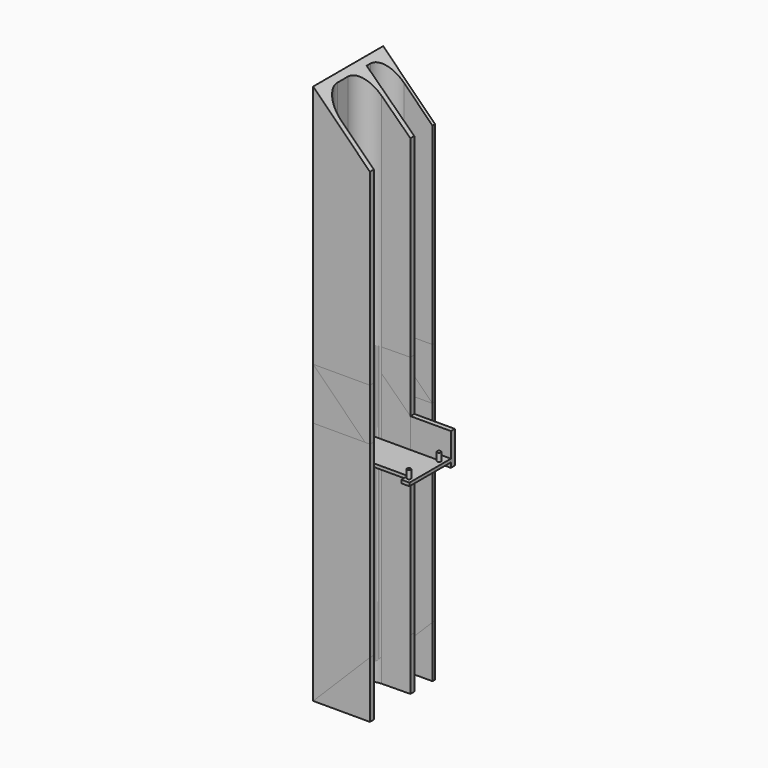
from build123d import *

# Parameters (mm, degrees)
PAD_DEPTH       = 334
POCKET_DEPTH    = 54.001
POCKET001_DEPTH = 54.001
PAD001_DEPTH    = 183
POCKET003_DEPTH = 54.001
PAD002_DEPTH    = 183
POCKET004_DEPTH = 54.001
PAD003_DEPTH    = 151
POCKET006_DEPTH = 54.001
SKETCH011_R     = 1.5
PAD004_DEPTH    = 5
PAD005_DEPTH    = 151
POCKET007_DEPTH = 54.001
SKETCH014_W     = 15
SKETCH014_H     = 10
SKETCH014_W_2   = 30
SKETCH014_H_2   = 21.8
SKETCH014_W_3   = 14
SKETCH014_H_3   = 9
POCKET008_DEPTH = 5
SKETCH015_W     = 54
SKETCH015_H     = 2
PAD006_DEPTH    = 32
SKETCH016_R     = 1.15
PAD007_DEPTH    = 5
SKETCH017_W     = 43.5
SKETCH017_H     = 5
POCKET009_DEPTH = 5
SKETCH018_W     = 3
SKETCH018_H     = 20
PAD008_DEPTH    = 25
SKETCH019_W     = 5
SKETCH019_H     = 14
POCKET010_DEPTH = 1.5


with BuildPart() as top_and_left:
    # Sketch → Pad (new body)
    with BuildSketch(Plane.XY):
        with BuildLine():
            Line((32, 52), (14.5, 52))
            ThreePointArc((14.5, 52), (6.368272, 48.631728), (3, 40.5))
            Line((3, 40.5), (3, 37.5))
            Line((3, 37.5), (32, 38))
            Line((32, 38), (32, 35))
            Line((32, 35), (14.498291, 34.698246))
            ThreePointArc((14.498291, 34.698246), (6.355841, 31.201519), (3, 23))
            Line((3, 23), (3, 15))
            ThreePointArc((3, 15), (6.514719, 6.514719), (15, 3))
            Line((15, 3), (35, 3))
            Line((35, 3), (35, 0))
            Line((35, 0), (0, 0))
            Line((0, 0), (0, 54))
            Line((0, 54), (32, 54))
            Line((32, 54), (32, 52))
        make_face()
    extrude(amount=PAD_DEPTH)

    # Sketch001 → Pocket (cut, through all)
    with BuildSketch(Plane.XZ):
        Polygon((0, 334), (35, 334), (35, 299), align=None)
    extrude(amount=-POCKET_DEPTH, mode=Mode.SUBTRACT)

    # Sketch002 → Pocket001 (cut, through all)
    with BuildSketch(Plane.XZ):
        Polygon((0, 0), (35, 0), (35, 35), align=None)
    extrude(amount=-POCKET001_DEPTH, mode=Mode.SUBTRACT)


with BuildPart() as bottom_l:
    # Sketch003 → Pad001 (new body)
    with BuildSketch(Plane.XY):
        with BuildLine():
            Line((32, 52), (14.5, 52))
            ThreePointArc((14.5, 52), (6.368272, 48.631728), (3, 40.5))
            Line((3, 40.5), (3, 37.5))
            Line((3, 37.5), (32, 38))
            Line((32, 38), (32, 35))
            Line((32, 35), (14.498291, 34.698246))
            ThreePointArc((14.498291, 34.698246), (6.355841, 31.201519), (3, 23))
            Line((3, 23), (3, 15))
            ThreePointArc((3, 15), (6.514719, 6.514719), (15, 3))
            Line((15, 3), (35, 3))
            Line((35, 3), (35, 0))
            Line((35, 0), (0, 0))
            Line((0, 0), (0, 54))
            Line((0, 54), (32, 54))
            Line((32, 54), (32, 52))
        make_face()
    extrude(amount=PAD001_DEPTH)

    # Sketch005 → Pocket003 (cut, through all)
    with BuildSketch(Plane.XZ):
        Polygon((0, 0), (35, 0), (35, 35), align=None)
    extrude(amount=-POCKET003_DEPTH, mode=Mode.SUBTRACT)


with BuildPart() as right_u:
    # Sketch006 → Pad002 (new body)
    with BuildSketch(Plane.XY):
        with BuildLine():
            Line((32, 52), (14.5, 52))
            ThreePointArc((14.5, 52), (6.368272, 48.631728), (3, 40.5))
            Line((3, 40.5), (3, 37.5))
            Line((3, 37.5), (32, 38))
            Line((32, 38), (32, 35))
            Line((32, 35), (14.498291, 34.698246))
            ThreePointArc((14.498291, 34.698246), (6.355841, 31.201519), (3, 23))
            Line((3, 23), (3, 15))
            ThreePointArc((3, 15), (6.514719, 6.514719), (15, 3))
            Line((15, 3), (35, 3))
            Line((35, 3), (35, 0))
            Line((35, 0), (0, 0))
            Line((0, 0), (0, 54))
            Line((0, 54), (32, 54))
            Line((32, 54), (32, 52))
        make_face()
    extrude(amount=PAD002_DEPTH)

    # Sketch007 → Pocket004 (cut, through all)
    with BuildSketch(Plane.XZ):
        Polygon((0, 183), (35, 183), (35, 148), align=None)
    extrude(amount=-POCKET004_DEPTH, mode=Mode.SUBTRACT)


with BuildPart() as bottom_r:
    # Sketch008 → Pad003 (new body)
    with BuildSketch(Plane.XY):
        Polygon((3, 40.5), (3, 37.5), (32, 38), (32, 35), (3, 35), (3, 3), (35, 3), (35, 0), (0, 0), (0, 54), (32, 54), (32, 52), (3, 52), align=None)
    extrude(amount=PAD003_DEPTH)

    # Sketch010 → Pocket006 (cut, through all)
    with BuildSketch(Plane.XZ):
        Polygon((0, 151), (35, 151), (35, 116), align=None)
    extrude(amount=-POCKET006_DEPTH, mode=Mode.SUBTRACT)

    # Sketch011 (on Face9 of Pocket006) → Pad004 (join)
    with BuildSketch(Plane.YZ.offset(3)):
        with Locations((8.5, 123.5)):
            Circle(SKETCH011_R)
        with Locations((20, 1.5)):
            Circle(SKETCH011_R)
    extrude(amount=PAD004_DEPTH)


with BuildPart() as right_b:
    # Sketch012 → Pad005 (new body)
    with BuildSketch(Plane.XY):
        Polygon((3, 40.5), (3, 37.5), (32, 38), (32, 35), (3, 35), (3, 3), (35, 3), (35, 0), (0, 0), (0, 54), (32, 54), (32, 52), (3, 52), align=None)
    extrude(amount=PAD005_DEPTH)

    # Sketch013 → Pocket007 (cut, through all)
    with BuildSketch(Plane.XZ):
        Polygon((0, 0), (35, 0), (35, 35), align=None)
    extrude(amount=-POCKET007_DEPTH, mode=Mode.SUBTRACT)

    # Sketch014 (on Face7 of Pocket007) → Pocket008 (cut)
    with BuildSketch(Plane(origin=(0, 0, 0), x_dir=(0, -1, 0), z_dir=(-1, 0, 0))):
        with Locations((-20, 78)):
            Rectangle(SKETCH014_W, SKETCH014_H)
        with Locations((-19, 103.9)):
            Rectangle(SKETCH014_W_2, SKETCH014_H_2)
        with Locations((-18, 139)):
            Rectangle(SKETCH014_W_3, SKETCH014_H_3)
    extrude(amount=-POCKET008_DEPTH, mode=Mode.SUBTRACT)

    # Sketch015 (on Face12 of Pocket008) → Pad006 (join)
    with BuildSketch(Plane.XZ.offset(-35)):
        with Locations((30, 135)):
            Rectangle(SKETCH015_W, SKETCH015_H)
    extrude(amount=PAD006_DEPTH)

    # Sketch016 (on Face34 of Pad006) → Pad007 (join)
    with BuildSketch(Plane.XY.offset(136)):
        with Locations((7, 29.6)):
            Circle(SKETCH016_R)
        with Locations((7, 6.4)):
            Circle(SKETCH016_R)
        with Locations((54, 29.6)):
            Circle(SKETCH016_R)
        with Locations((54, 6.4)):
            Circle(SKETCH016_R)
    extrude(amount=PAD007_DEPTH)

    # Sketch017 (on Face34 of Pad007) → Pocket009 (cut)
    with BuildSketch(Plane.XY.offset(136)):
        with Locations((30.25, 32.5)):
            Rectangle(SKETCH017_W, SKETCH017_H)
        with Locations((30.25, 5.5)):
            Rectangle(SKETCH017_W, SKETCH017_H)
    extrude(amount=-POCKET009_DEPTH, mode=Mode.SUBTRACT)

    # Sketch018 (on Face11 of Pocket009) → Pad008 (join)
    with BuildSketch(Plane.YZ.offset(32)):
        with Locations((36.5, 141)):
            Rectangle(SKETCH018_W, SKETCH018_H)
    extrude(amount=PAD008_DEPTH)

    # Sketch019 (on Face40 of Pad008) → Pocket010 (cut)
    with BuildSketch(Plane.XY.offset(136)):
        with Locations((5.5, 18)):
            Rectangle(SKETCH019_W, SKETCH019_H)
    extrude(amount=-POCKET010_DEPTH, mode=Mode.SUBTRACT)


solid = Compound([top_and_left.part, bottom_l.part, right_u.part, bottom_r.part, right_b.part])
